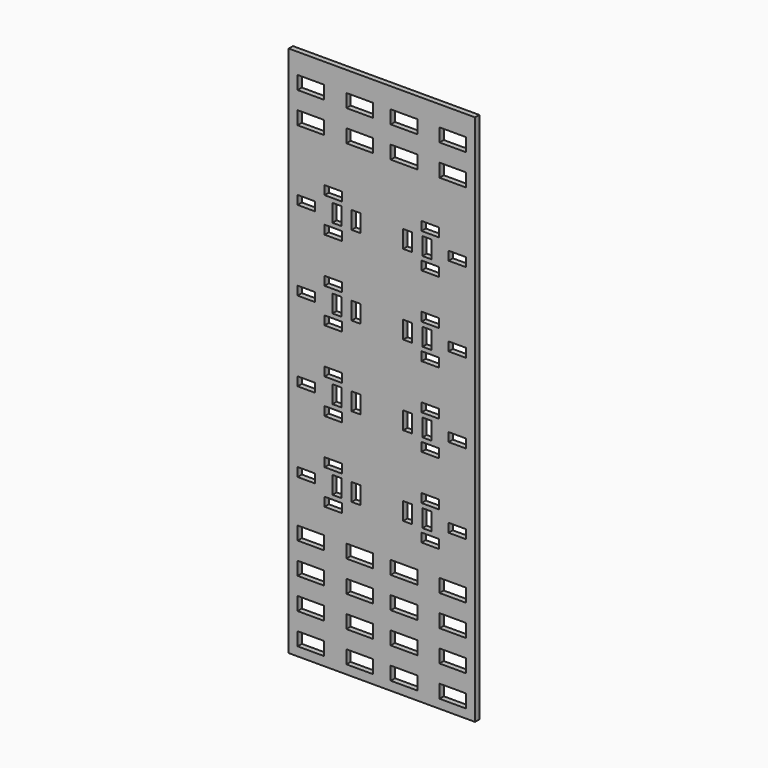
from build123d import *

# Parameters (mm, degrees)
F0_W     = 88.9
F0_H     = 254
F0_W_2   = 12.7
F0_H_2   = 6.35
F0_W_3   = 8.382
F0_H_3   = 4.2164
F0_W_4   = 4.2164
F0_H_4   = 8.382
F1_DEPTH = 2.54


with BuildPart() as f1:
    # F0 (on Front) → F1 (new body)
    with BuildSketch(Plane.XZ):
        with Locations((44.45, 127)):
            Rectangle(F0_W, F0_H)
        with Locations((10.583164, 7.40664)):
            Rectangle(F0_W_2, F0_H_2, mode=Mode.SUBTRACT)
        with Locations((10.583164, 22.21484)):
            Rectangle(F0_W_2, F0_H_2, mode=Mode.SUBTRACT)
        with Locations((10.583164, 37.02304)):
            Rectangle(F0_W_2, F0_H_2, mode=Mode.SUBTRACT)
        with Locations((10.583164, 51.83124)):
            Rectangle(F0_W_2, F0_H_2, mode=Mode.SUBTRACT)
        with Locations((33.866836, 7.40664)):
            Rectangle(F0_W_2, F0_H_2, mode=Mode.SUBTRACT)
        with Locations((33.866836, 22.21484)):
            Rectangle(F0_W_2, F0_H_2, mode=Mode.SUBTRACT)
        with Locations((33.866836, 37.02304)):
            Rectangle(F0_W_2, F0_H_2, mode=Mode.SUBTRACT)
        with Locations((33.866836, 51.83124)):
            Rectangle(F0_W_2, F0_H_2, mode=Mode.SUBTRACT)
        with Locations((8.42264, 77.47)):
            Rectangle(F0_W_3, F0_H_3, mode=Mode.SUBTRACT)
        with Locations((21.315144, 69.1642)):
            Rectangle(F0_W_3, F0_H_3, mode=Mode.SUBTRACT)
        with Locations((21.315144, 85.7758)):
            Rectangle(F0_W_3, F0_H_3, mode=Mode.SUBTRACT)
        with Locations((8.42264, 115.57)):
            Rectangle(F0_W_3, F0_H_3, mode=Mode.SUBTRACT)
        with Locations((21.315144, 107.2642)):
            Rectangle(F0_W_3, F0_H_3, mode=Mode.SUBTRACT)
        with Locations((21.315144, 123.8758)):
            Rectangle(F0_W_3, F0_H_3, mode=Mode.SUBTRACT)
        with Locations((22.96846, 77.47)):
            Rectangle(F0_W_4, F0_H_4, mode=Mode.SUBTRACT)
        with Locations((32.156784, 77.47)):
            Rectangle(F0_W_4, F0_H_4, mode=Mode.SUBTRACT)
        with Locations((22.96846, 115.57)):
            Rectangle(F0_W_4, F0_H_4, mode=Mode.SUBTRACT)
        with Locations((32.156784, 115.57)):
            Rectangle(F0_W_4, F0_H_4, mode=Mode.SUBTRACT)
        with Locations((55.033164, 7.40664)):
            Rectangle(F0_W_2, F0_H_2, mode=Mode.SUBTRACT)
        with Locations((55.033164, 22.21484)):
            Rectangle(F0_W_2, F0_H_2, mode=Mode.SUBTRACT)
        with Locations((55.033164, 37.02304)):
            Rectangle(F0_W_2, F0_H_2, mode=Mode.SUBTRACT)
        with Locations((55.033164, 51.83124)):
            Rectangle(F0_W_2, F0_H_2, mode=Mode.SUBTRACT)
        with Locations((78.316836, 7.40664)):
            Rectangle(F0_W_2, F0_H_2, mode=Mode.SUBTRACT)
        with Locations((78.316836, 22.21484)):
            Rectangle(F0_W_2, F0_H_2, mode=Mode.SUBTRACT)
        with Locations((78.316836, 37.02304)):
            Rectangle(F0_W_2, F0_H_2, mode=Mode.SUBTRACT)
        with Locations((78.316836, 51.83124)):
            Rectangle(F0_W_2, F0_H_2, mode=Mode.SUBTRACT)
        with Locations((56.743216, 77.47)):
            Rectangle(F0_W_4, F0_H_4, mode=Mode.SUBTRACT)
        with Locations((65.93154, 77.47)):
            Rectangle(F0_W_4, F0_H_4, mode=Mode.SUBTRACT)
        with Locations((56.743216, 115.57)):
            Rectangle(F0_W_4, F0_H_4, mode=Mode.SUBTRACT)
        with Locations((65.93154, 115.57)):
            Rectangle(F0_W_4, F0_H_4, mode=Mode.SUBTRACT)
        with Locations((67.584856, 69.1642)):
            Rectangle(F0_W_3, F0_H_3, mode=Mode.SUBTRACT)
        with Locations((67.584856, 85.7758)):
            Rectangle(F0_W_3, F0_H_3, mode=Mode.SUBTRACT)
        with Locations((80.47736, 77.47)):
            Rectangle(F0_W_3, F0_H_3, mode=Mode.SUBTRACT)
        with Locations((67.584856, 107.2642)):
            Rectangle(F0_W_3, F0_H_3, mode=Mode.SUBTRACT)
        with Locations((67.584856, 123.8758)):
            Rectangle(F0_W_3, F0_H_3, mode=Mode.SUBTRACT)
        with Locations((80.47736, 115.57)):
            Rectangle(F0_W_3, F0_H_3, mode=Mode.SUBTRACT)
        with Locations((8.42264, 153.67)):
            Rectangle(F0_W_3, F0_H_3, mode=Mode.SUBTRACT)
        with Locations((21.315144, 145.3642)):
            Rectangle(F0_W_3, F0_H_3, mode=Mode.SUBTRACT)
        with Locations((21.315144, 161.9758)):
            Rectangle(F0_W_3, F0_H_3, mode=Mode.SUBTRACT)
        with Locations((21.315144, 183.4642)):
            Rectangle(F0_W_3, F0_H_3, mode=Mode.SUBTRACT)
        with Locations((22.96846, 153.67)):
            Rectangle(F0_W_4, F0_H_4, mode=Mode.SUBTRACT)
        with Locations((32.156784, 153.67)):
            Rectangle(F0_W_4, F0_H_4, mode=Mode.SUBTRACT)
        with Locations((8.42264, 191.77)):
            Rectangle(F0_W_3, F0_H_3, mode=Mode.SUBTRACT)
        with Locations((21.315144, 200.0758)):
            Rectangle(F0_W_3, F0_H_3, mode=Mode.SUBTRACT)
        with Locations((10.583164, 226.311719)):
            Rectangle(F0_W_2, F0_H_2, mode=Mode.SUBTRACT)
        with Locations((10.583164, 241.119919)):
            Rectangle(F0_W_2, F0_H_2, mode=Mode.SUBTRACT)
        with Locations((22.96846, 191.77)):
            Rectangle(F0_W_4, F0_H_4, mode=Mode.SUBTRACT)
        with Locations((32.156784, 191.77)):
            Rectangle(F0_W_4, F0_H_4, mode=Mode.SUBTRACT)
        with Locations((33.866836, 226.311719)):
            Rectangle(F0_W_2, F0_H_2, mode=Mode.SUBTRACT)
        with Locations((33.866836, 241.119919)):
            Rectangle(F0_W_2, F0_H_2, mode=Mode.SUBTRACT)
        with Locations((56.743216, 153.67)):
            Rectangle(F0_W_4, F0_H_4, mode=Mode.SUBTRACT)
        with Locations((65.93154, 153.67)):
            Rectangle(F0_W_4, F0_H_4, mode=Mode.SUBTRACT)
        with Locations((67.584856, 145.3642)):
            Rectangle(F0_W_3, F0_H_3, mode=Mode.SUBTRACT)
        with Locations((80.47736, 153.67)):
            Rectangle(F0_W_3, F0_H_3, mode=Mode.SUBTRACT)
        with Locations((67.584856, 161.9758)):
            Rectangle(F0_W_3, F0_H_3, mode=Mode.SUBTRACT)
        with Locations((67.584856, 183.4642)):
            Rectangle(F0_W_3, F0_H_3, mode=Mode.SUBTRACT)
        with Locations((56.743216, 191.77)):
            Rectangle(F0_W_4, F0_H_4, mode=Mode.SUBTRACT)
        with Locations((65.93154, 191.77)):
            Rectangle(F0_W_4, F0_H_4, mode=Mode.SUBTRACT)
        with Locations((55.033164, 226.311719)):
            Rectangle(F0_W_2, F0_H_2, mode=Mode.SUBTRACT)
        with Locations((55.033164, 241.119919)):
            Rectangle(F0_W_2, F0_H_2, mode=Mode.SUBTRACT)
        with Locations((67.584856, 200.0758)):
            Rectangle(F0_W_3, F0_H_3, mode=Mode.SUBTRACT)
        with Locations((80.47736, 191.77)):
            Rectangle(F0_W_3, F0_H_3, mode=Mode.SUBTRACT)
        with Locations((78.316836, 226.311719)):
            Rectangle(F0_W_2, F0_H_2, mode=Mode.SUBTRACT)
        with Locations((78.316836, 241.119919)):
            Rectangle(F0_W_2, F0_H_2, mode=Mode.SUBTRACT)
    extrude(amount=F1_DEPTH)


solid = f1.part
